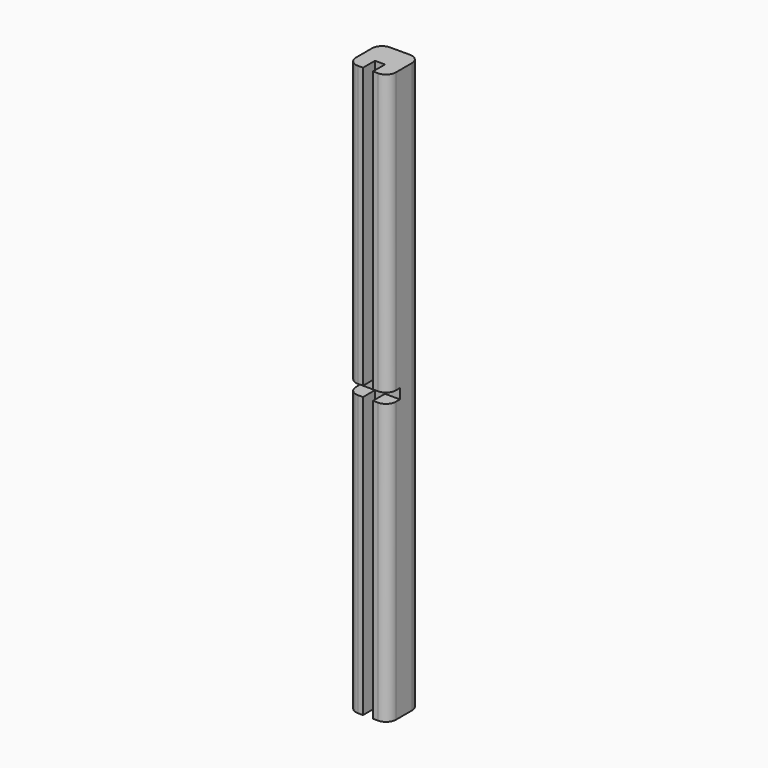
from build123d import *

# Parameters (mm, degrees)
F1_DEPTH = 361.95
F2_W     = 3.175
F2_H     = 6.35
F2_W_2   = 6.35
F3_DEPTH = 9.525
F2_H_2   = 177.8
F4_DEPTH = 9.525
F5_DEPTH = 9.525


with BuildPart() as f1:
    # F0 (on Top) → F1 (new body)
    with BuildSketch(Plane.XY):
        with BuildLine():
            ThreePointArc((12.7, 6.35), (10.8401280605, 10.8401280605), (6.35, 12.7))
            Line((6.35, 12.7), (-6.35, 12.7))
            ThreePointArc((-6.35, 12.7), (-10.8401280605, 10.8401280605), (-12.7, 6.35))
            Line((-12.7, 6.35), (-12.7, -6.35))
            ThreePointArc((-12.7, -6.35), (-10.8401280605, -10.8401280605), (-6.35, -12.7))
            Line((-6.35, -12.7), (6.35, -12.7))
            ThreePointArc((6.35, -12.7), (10.8401280605, -10.8401280605), (12.7, -6.35))
            Line((12.7, -6.35), (12.7, 6.35))
        make_face()
    extrude(amount=F1_DEPTH)

    # F2 (on face) → F3 (cut)
    with BuildSketch(Plane.XZ.offset(12.7)):
        with Locations((-4.7625, 180.975)):
            Rectangle(F2_W, F2_H)
        with Locations((-9.525, 180.975)):
            Rectangle(F2_W_2, F2_H)
        with Locations((9.525, 180.975)):
            Rectangle(F2_W_2, F2_H)
    extrude(amount=-F3_DEPTH, mode=Mode.SUBTRACT)

    # F2 (on face) → F4 (cut)
    with BuildSketch(Plane.XZ.offset(12.7)):
        with Locations((0, 273.05)):
            Rectangle(F2_W_2, F2_H_2)
        with Locations((0, 88.9)):
            Rectangle(F2_W_2, F2_H_2)
        with Locations((0, 180.975)):
            Rectangle(F2_W_2, F2_H)
    extrude(amount=-F4_DEPTH, mode=Mode.SUBTRACT)

    # F2 (on face) → F5 (cut)
    with BuildSketch(Plane.XZ.offset(12.7)):
        with Locations((4.7625, 180.975)):
            Rectangle(F2_W, F2_H)
        with Locations((9.525, 180.975)):
            Rectangle(F2_W_2, F2_H)
        with Locations((-4.7625, 180.975)):
            Rectangle(F2_W, F2_H)
        with Locations((0, 180.975)):
            Rectangle(F2_W_2, F2_H)
        with Locations((-9.525, 180.975)):
            Rectangle(F2_W_2, F2_H)
    extrude(amount=-F5_DEPTH, mode=Mode.SUBTRACT)


solid = f1.part
